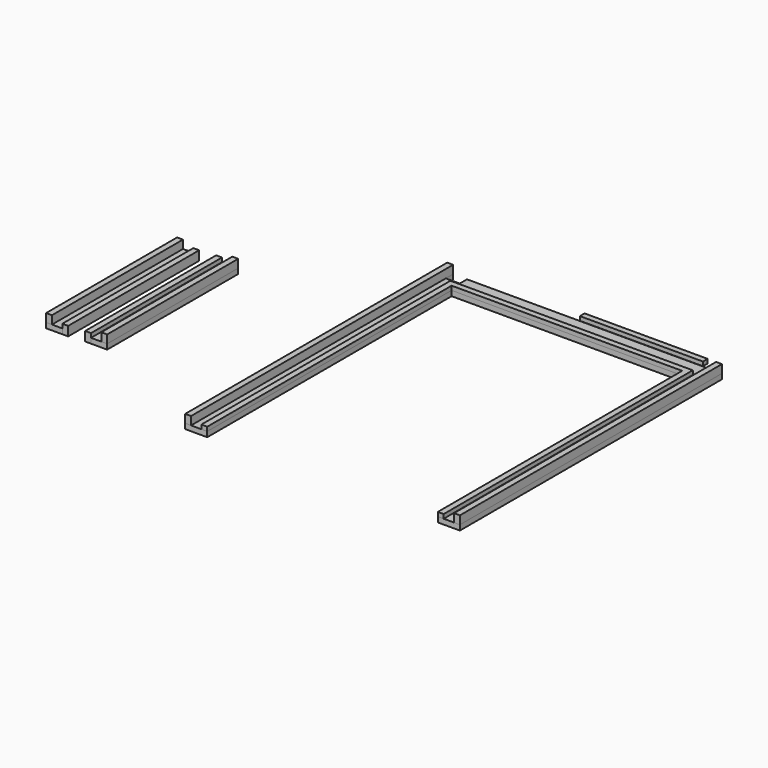
from build123d import *

# Parameters (mm, degrees)
F1_DEPTH  = 13
F0_W      = 127.4468
F0_H      = 5.7
F2_DEPTH  = 5
F3_W      = 5.7
F3_H      = 158.75
F4_DEPTH  = 13
F3_W_2    = 10
F5_DEPTH  = 5
F6_W      = 234.8936
F6_H      = 4
F7_DEPTH  = 321.31
F8_W      = 8.1123012102
F8_H      = 4
F9_DEPTH  = 250
F10_W     = 127.4468
F10_H     = 4
F11_DEPTH = 6
F13_DEPTH = 9
F14_W     = 13.5
F14_H     = 8.8018592085
F15_DEPTH = 25


with BuildPart() as f1:
    # F0 (on Top) → F1 (new body)
    with BuildSketch(Plane.XY):
        Polygon((-195.3821017299, -20.985306791), (-195.3821017299, -317.085306791), (-189.6821017299, -317.085306791), (-189.6821017299, -15.285306791), (-189.6821017299, -5.285306791), (-189.6821017299, 0.414693209), (-195.3821017299, 0.414693209), align=None)
    extrude(amount=F1_DEPTH)


with BuildPart() as f1b:
    # F0 (on Top) → F1, piece 2 (new body)
    with BuildSketch(Plane.XY):
        Polygon((-62.2353017299, 0.414693209), (-62.2353017299, -5.285306791), (65.2114982701, -5.285306791), (65.2114982701, -317.085306791), (70.9114982701, -317.085306791), (70.9114982701, -20.985306791), (70.9114982701, -5.285306791), (70.9114982701, 0.414693209), align=None)
    extrude(amount=F1_DEPTH)

    # F8 (on Front) → F9 (cut, symmetric)
    with BuildSketch(Plane.XZ):
        with Locations((61.155347665, 11)):
            Rectangle(F8_W, F8_H)
    extrude(amount=F9_DEPTH, both=True, mode=Mode.SUBTRACT)

    # F10 (on Front) → F11 (cut, symmetric)
    with BuildSketch(Plane.XZ):
        with Locations((1.4880982701, 7)):
            Rectangle(F10_W, F10_H)
    extrude(amount=F11_DEPTH, both=True, mode=Mode.SUBTRACT)


with BuildPart() as f1c:
    # F0 (on Top) → F1, piece 3 (new body)
    with BuildSketch(Plane.XY):
        Polygon((-179.6821017299, -15.285306791), (-179.6821017299, -317.085306791), (-173.9821017299, -317.085306791), (-173.9821017299, -20.985306791), (-62.2353017299, -20.985306791), (-62.2353017299, -15.285306791), align=None)
        Polygon((55.2114982701, -15.285306791), (-62.2353017299, -15.285306791), (-62.2353017299, -20.985306791), (49.5114982701, -20.985306791), (49.5114982701, -317.085306791), (55.2114982701, -317.085306791), align=None)
    extrude(amount=F1_DEPTH)

    # F6 (on Front) → F7 (cut, symmetric)
    with BuildSketch(Plane.XZ):
        with Locations((-62.2353017299, 11)):
            Rectangle(F6_W, F6_H)
    extrude(amount=F7_DEPTH, both=True, mode=Mode.SUBTRACT)


with BuildPart() as f2:
    # F0 (on Top) → F2 (new body)
    with BuildSketch(Plane.XY):
        Polygon((-195.3821017299, -20.985306791), (-195.3821017299, -317.085306791), (-189.6821017299, -317.085306791), (-189.6821017299, -15.285306791), (-189.6821017299, -5.285306791), (-189.6821017299, 0.414693209), (-195.3821017299, 0.414693209), align=None)
        Polygon((-189.6821017299, -15.285306791), (-189.6821017299, -317.085306791), (-179.6821017299, -317.085306791), (-179.6821017299, -15.285306791), (-62.2353017299, -15.285306791), (-62.2353017299, -5.285306791), (-189.6821017299, -5.285306791), align=None)
        Polygon((-179.6821017299, -15.285306791), (-179.6821017299, -317.085306791), (-173.9821017299, -317.085306791), (-173.9821017299, -20.985306791), (-62.2353017299, -20.985306791), (-62.2353017299, -15.285306791), align=None)
        with Locations((-125.9587017299, -2.435306791)):
            Rectangle(F0_W, F0_H)
        Polygon((55.2114982701, -15.285306791), (-62.2353017299, -15.285306791), (-62.2353017299, -20.985306791), (49.5114982701, -20.985306791), (49.5114982701, -317.085306791), (55.2114982701, -317.085306791), align=None)
        Polygon((-62.2353017299, -5.285306791), (-62.2353017299, -15.285306791), (55.2114982701, -15.285306791), (55.2114982701, -317.085306791), (65.2114982701, -317.085306791), (65.2114982701, -5.285306791), align=None)
        Polygon((-62.2353017299, 0.414693209), (-62.2353017299, -5.285306791), (65.2114982701, -5.285306791), (65.2114982701, -317.085306791), (70.9114982701, -317.085306791), (70.9114982701, -20.985306791), (70.9114982701, -5.285306791), (70.9114982701, 0.414693209), align=None)
    extrude(amount=F2_DEPTH)

    # F14 (on Top) → F15 (cut)
    with BuildSketch(Plane.XY):
        with Locations((-182.9321017299, -3.9862363952)):
            Rectangle(F14_W, F14_H)
    extrude(amount=F15_DEPTH, mode=Mode.SUBTRACT)


with BuildPart() as f4:
    # F3 (on Top) → F4 (new body)
    with BuildSketch(Plane.XY):
        with Locations((-377.9834323733, -174.4130837469)):
            Rectangle(F3_W, F3_H)
    extrude(amount=F4_DEPTH)


with BuildPart() as f4b:
    # F3 (on Top) → F4, piece 2 (new body)
    with BuildSketch(Plane.XY):
        with Locations((-325.6750609583, -172.888782181)):
            Rectangle(F3_W, F3_H)
    extrude(amount=F4_DEPTH)


with BuildPart() as f5:
    # F3 (on Top) → F5 (new body)
    with BuildSketch(Plane.XY):
        with Locations((-377.9834323733, -174.4130837469)):
            Rectangle(F3_W, F3_H)
        with Locations((-370.1334323733, -174.4130837469)):
            Rectangle(F3_W_2, F3_H)
        with Locations((-362.2834323733, -174.4130837469)):
            Rectangle(F3_W, F3_H)
    extrude(amount=F5_DEPTH)


with BuildPart() as f5b:
    # F3 (on Top) → F5, piece 2 (new body)
    with BuildSketch(Plane.XY):
        with Locations((-341.3750609583, -172.888782181)):
            Rectangle(F3_W, F3_H)
        with Locations((-333.5250609583, -172.888782181)):
            Rectangle(F3_W_2, F3_H)
        with Locations((-325.6750609583, -172.888782181)):
            Rectangle(F3_W, F3_H)
    extrude(amount=F5_DEPTH)


with BuildPart() as f13:
    # F3 (on Top) → F13 (new body)
    with BuildSketch(Plane.XY):
        with Locations((-362.2834323733, -174.4130837469)):
            Rectangle(F3_W, F3_H)
    extrude(amount=F13_DEPTH)


with BuildPart() as f13b:
    # F3 (on Top) → F13, piece 2 (new body)
    with BuildSketch(Plane.XY):
        with Locations((-341.3750609583, -172.888782181)):
            Rectangle(F3_W, F3_H)
    extrude(amount=F13_DEPTH)


solid = Compound([f1.part, f1b.part, f1c.part, f2.part, f4.part, f4b.part, f5.part, f5b.part, f13.part, f13b.part])
